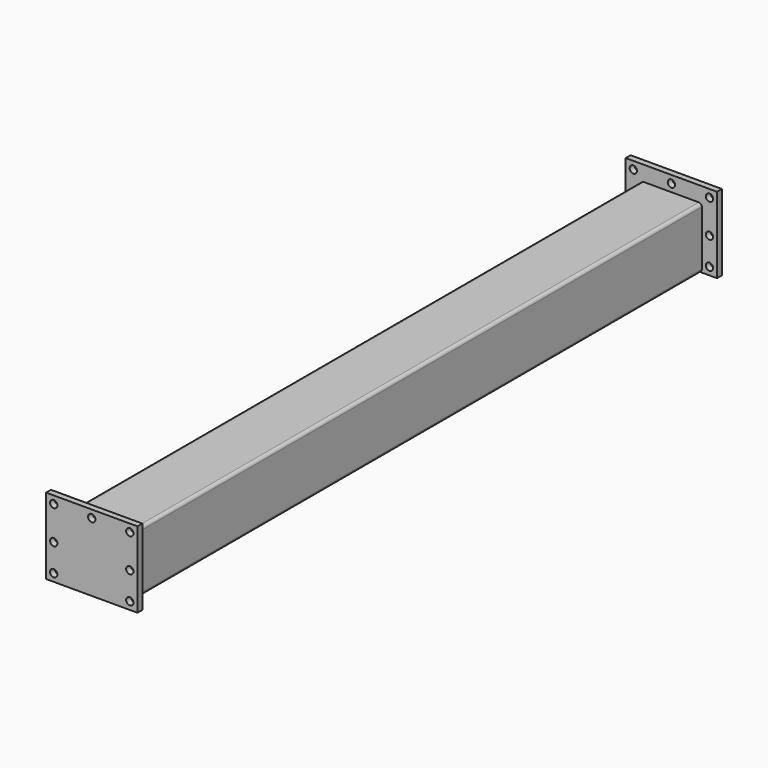
from build123d import *

# Parameters (mm, degrees)
F1_DEPTH = 1180
F3_W     = 150
F3_H     = 125
F3_R     = 6
F4_DEPTH = 10
F7_W     = 150
F7_H     = 125
F7_R     = 6
F8_DEPTH = 10


with BuildPart() as f1:
    # F0 (on Front) → F1 (new body)
    with BuildSketch(Plane.XZ):
        with BuildLine():
            ThreePointArc((50, 45), (48.5355339059, 48.5355339059), (45, 50))
            Line((45, 50), (-45, 50))
            ThreePointArc((-45, 50), (-48.5355339059, 48.5355339059), (-50, 45))
            Line((-50, 45), (-50, -45))
            ThreePointArc((-50, -45), (-48.5355339059, -48.5355339059), (-45, -50))
            Line((-45, -50), (45, -50))
            ThreePointArc((45, -50), (48.5355339059, -48.5355339059), (50, -45))
            Line((50, -45), (50, 45))
        make_face()
        with BuildLine():
            ThreePointArc((-47, 45), (-46.4142135624, 46.4142135624), (-45, 47))
            Line((-45, 47), (45, 47))
            ThreePointArc((45, 47), (46.4142135624, 46.4142135624), (47, 45))
            Line((47, 45), (47, -45))
            ThreePointArc((47, -45), (46.4142135624, -46.4142135624), (45, -47))
            Line((45, -47), (-45, -47))
            ThreePointArc((-45, -47), (-46.4142135624, -46.4142135624), (-47, -45))
            Line((-47, -45), (-47, 45))
        make_face(mode=Mode.SUBTRACT)
    extrude(amount=-F1_DEPTH)


with BuildPart() as f4:
    # F3 (on offset) → F4 (new body)
    with BuildSketch(Plane.XZ.offset(10)):
        with Locations((0, 12.5)):
            Rectangle(F3_W, F3_H)
        with Locations((-62.5, -37.5)):
            Circle(F3_R, mode=Mode.SUBTRACT)
        with Locations((-62.5, 7.5)):
            Circle(F3_R, mode=Mode.SUBTRACT)
        with Locations((62.5, -37.5)):
            Circle(F3_R, mode=Mode.SUBTRACT)
        with Locations((62.5, 7.5)):
            Circle(F3_R, mode=Mode.SUBTRACT)
        with Locations((-62.5, 62.5)):
            Circle(F3_R, mode=Mode.SUBTRACT)
        with Locations((0, 62.5)):
            Circle(F3_R, mode=Mode.SUBTRACT)
        with Locations((62.5, 62.5)):
            Circle(F3_R, mode=Mode.SUBTRACT)
    extrude(amount=-F4_DEPTH)


with BuildPart() as f1_1:
    add(f1.part)

    # F5: union F4
    add(f4.part)

    # F7 (on offset) → F8 (join)
    with BuildSketch(Plane(origin=(0, 1190, 0), x_dir=(-1, 0, 0), z_dir=(0, 1, 0))):
        with Locations((0, 12.5)):
            Rectangle(F7_W, F7_H)
        with Locations((-62.5, -37.5)):
            Circle(F7_R, mode=Mode.SUBTRACT)
        with Locations((-62.5, 7.5)):
            Circle(F7_R, mode=Mode.SUBTRACT)
        with Locations((62.5, -37.5)):
            Circle(F7_R, mode=Mode.SUBTRACT)
        with Locations((62.5, 7.5)):
            Circle(F7_R, mode=Mode.SUBTRACT)
        with Locations((-62.5, 62.5)):
            Circle(F7_R, mode=Mode.SUBTRACT)
        with Locations((0, 62.5)):
            Circle(F7_R, mode=Mode.SUBTRACT)
        with Locations((62.5, 62.5)):
            Circle(F7_R, mode=Mode.SUBTRACT)
    extrude(amount=-F8_DEPTH)


solid = f1_1.part
